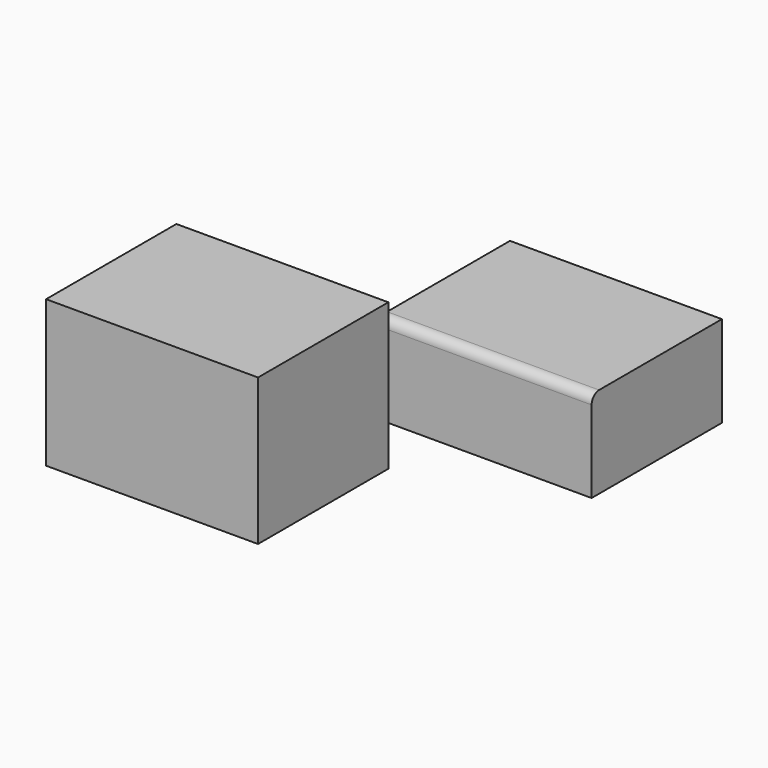
from build123d import *

# Parameters (mm, degrees)
F0_W     = 41.860901
F0_H     = 32.16897
F1_DEPTH = 18.034
F2_R     = 1.839631
F0_H_2   = 32.168969
F3_DEPTH = 28.956


with BuildPart() as f1:
    # F0 (on Top) → F1 (new body)
    with BuildSketch(Plane.XY):
        with Locations((34.397354, 42.273325)):
            Rectangle(F0_W, F0_H)
    extrude(amount=F1_DEPTH)

    # F2
    f2_edges = [f1.edges().sort_by_distance(p)[0] for p in [
        (34.397354, 26.18884, 18.034),
    ]]
    fillet(f2_edges, radius=F2_R)


with BuildPart() as f3:
    # F0 (on Top) → F3 (new body)
    with BuildSketch(Plane.XY):
        with Locations((3.814909, -1.855902)):
            Rectangle(F0_W, F0_H_2)
    extrude(amount=F3_DEPTH)


solid = Compound([f1.part, f3.part])
